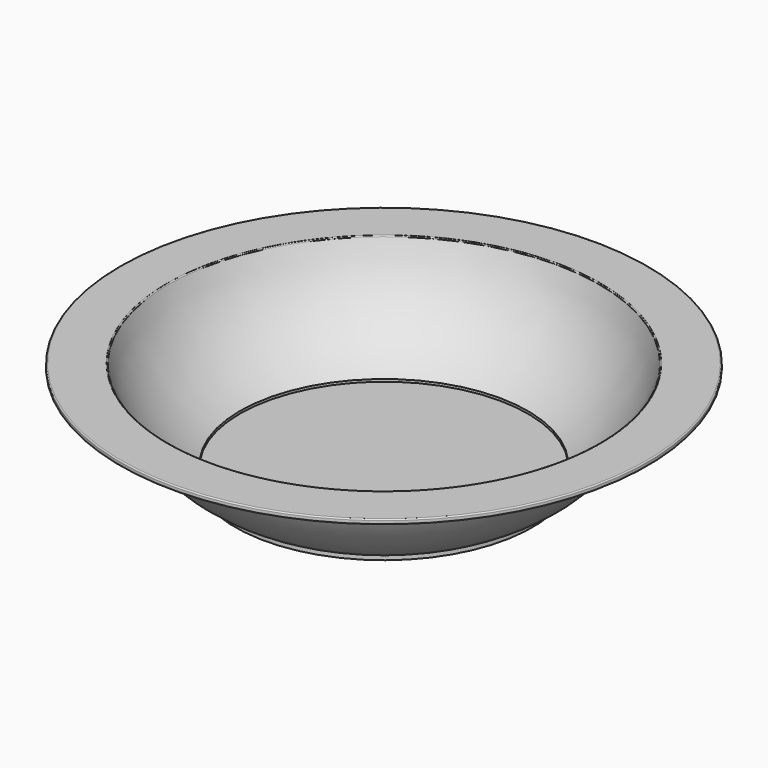
from build123d import *

# Parameters (mm, degrees)
F2_R = 0.5


with BuildPart() as f1:
    # F0 (on Front) → F1 (revolve)
    with BuildSketch(Plane.XZ):
        with BuildLine():
            Line((-90, 38), (-110, 38))
            Line((-110, 38), (-110, 36))
            Line((-110, 36), (-91.499485, 36))
            ThreePointArc((-91.499485, 36), (-80.300295, 15.006578), (-62, -0.200158))
            Line((-62, -0.200158), (-62, -2))
            Line((-62, -2), (0, -2))
            Line((0, -2), (0, 0))
            Line((0, 0), (-60, 0))
            Line((-60, 0), (-60, 1))
            ThreePointArc((-60, 1), (-78.842757, 16.384251), (-90, 38))
        make_face()
    revolve(axis=Axis((0, 0, -1), (0, 0, -1)))

    # F2
    f2_edges = [f1.edges().sort_by_distance(p)[0] for p in [
        (110, 0, 36),
        (110, 0, 38),
        (90, 0, 38),
    ]]
    fillet(f2_edges, radius=F2_R)


solid = f1.part
